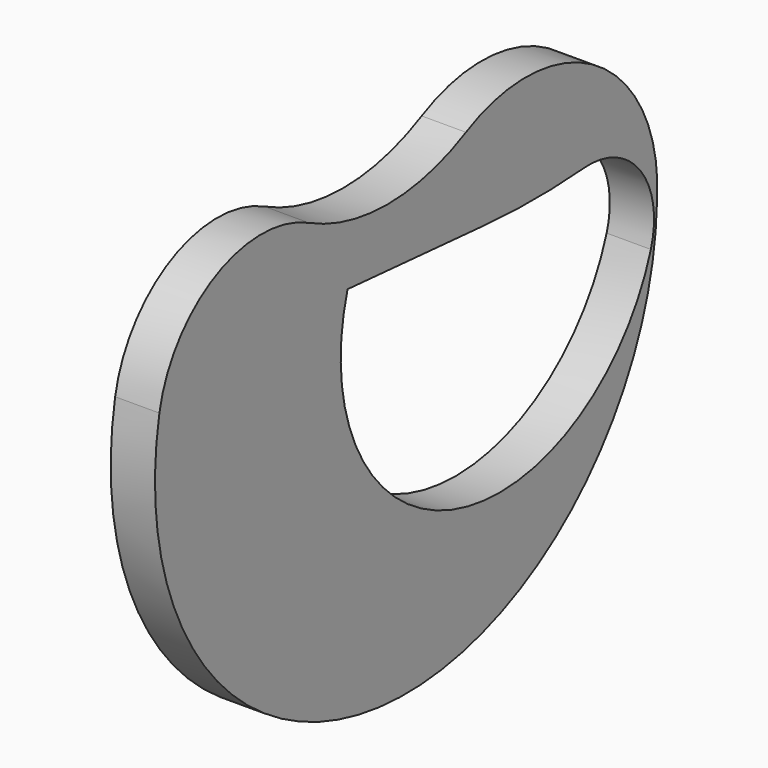
from build123d import *

# Parameters (mm, degrees)
F1_DEPTH = 25.4


with BuildPart() as f1:
    # F0 (on Right) → F1 (new body)
    with BuildSketch(Plane.YZ):
        with BuildLine():
            ThreePointArc((-219.922125, -36.629304), (-62.111314, -249.381811), (137.089384, -74.776647))
            ThreePointArc((137.089384, -74.776647), (95.011504, 10.572048), (0, 15.840994))
            ThreePointArc((0, 15.840994), (-56.30783, 2.261921), (-112.61566, 15.840994))
            ThreePointArc((-112.61566, 15.840994), (-179.39915, 16.458399), (-219.922125, -36.629304))
        make_face()
        with BuildLine():
            ThreePointArc((132.696509, -97.303137), (-9.948131, -170.8316), (-84.925763, -28.943324))
            Line((-84.925763, -28.943324), (13.800439, -36.629304))
            ThreePointArc((13.800439, -36.629304), (49.363098, -38.011516), (84.925756, -36.629304))
            ThreePointArc((84.925756, -36.629304), (125.022099, -54.202727), (132.696509, -97.303137))
        make_face(mode=Mode.SUBTRACT)
    extrude(amount=F1_DEPTH)


solid = f1.part
